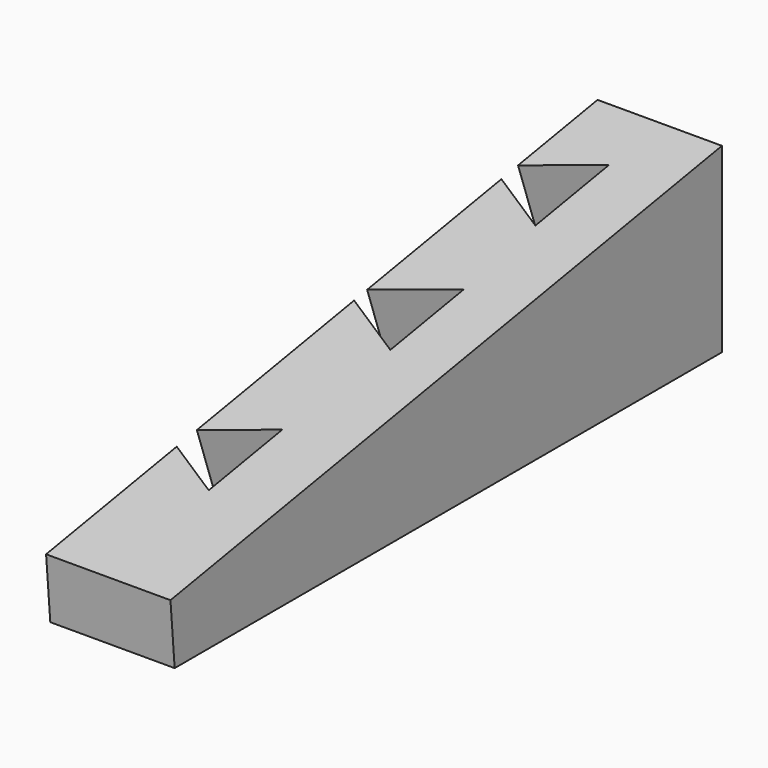
from build123d import *

# Parameters (mm, degrees)
F1_DEPTH = 50.8
F3_DEPTH = 30.48
F3_TAPER = -8


with BuildPart() as f1:
    # F0 (on Right) → F1 (new body)
    with BuildSketch(Plane.YZ):
        Polygon((-134.3647271911, -22.5492262361), (-132.2128937073, -47.857912742), (147.1871062927, -47.857912742), (147.1871062927, 26.385902432), align=None)
    extrude(amount=F1_DEPTH)

    # F2 (on face) → F3 (cut)
    with BuildSketch(Plane(origin=(0, -0.1356486827, 0.780464594), x_dir=(1, 0, 0), z_dir=(0, -0.1712378928, 0.9852297113))):
        Polygon((23.9652451582, -44.2607051253), (0, -58.0970458686), (0, -68.524364382), (23.9652451582, -82.3607051253), align=None)
        Polygon((25.5085083311, 123.0692242943), (0, 108.3418801427), (0, 99.6965684458), (25.5085083311, 84.9692242943), align=None)
        Polygon((27.1452323874, 45.8107569695), (0, 30.1384497434), (0, 23.3830641955), (27.1452323874, 7.7107569695), align=None)
    extrude(amount=-F3_DEPTH, taper=F3_TAPER, mode=Mode.SUBTRACT)


solid = f1.part
